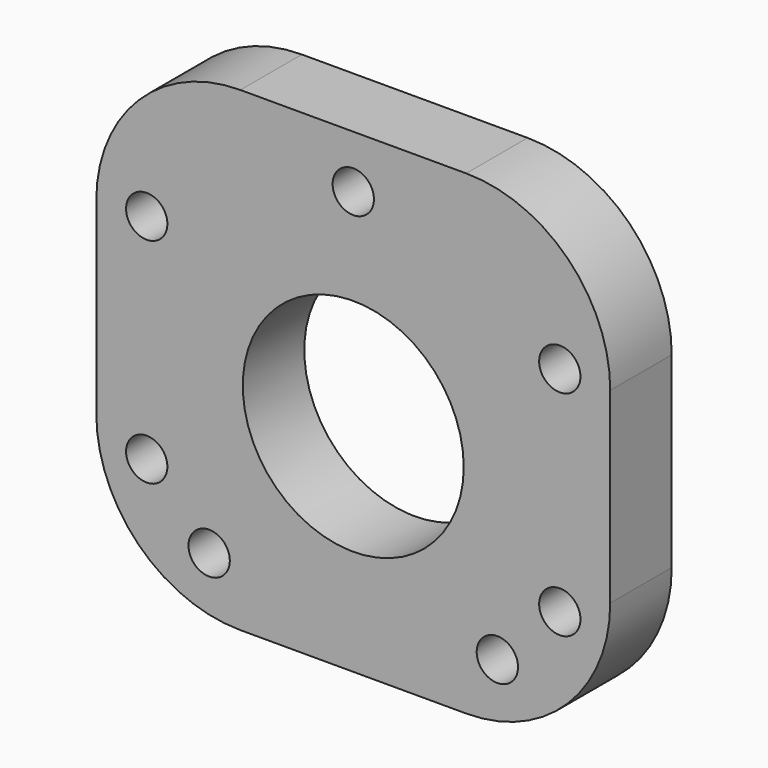
from build123d import *

# Parameters (mm, degrees)
F0_R     = 4.3
F0_R_2   = 23
F1_DEPTH = 16


with BuildPart() as f1:
    # F0 (on Front) → F1 (new body)
    with BuildSketch(Plane.XZ):
        with BuildLine():
            Line((23.5, 54), (-23.5, 54))
            ThreePointArc((-23.5, 54), (-44.713203, 45.213203), (-53.5, 24))
            Line((-53.5, 24), (-53.5, -15))
            ThreePointArc((-53.5, -15), (-44.713203, -36.213203), (-23.5, -45))
            Line((-23.5, -45), (23.5, -45))
            ThreePointArc((23.5, -45), (44.713203, -36.213203), (53.5, -15))
            Line((53.5, -15), (53.5, 24))
            ThreePointArc((53.5, 24), (44.713203, 45.213203), (23.5, 54))
        make_face()
        with Locations((-30, -33)):
            Circle(F0_R, mode=Mode.SUBTRACT)
        with Locations((-43, -20)):
            Circle(F0_R, mode=Mode.SUBTRACT)
        Circle(F0_R_2, mode=Mode.SUBTRACT)
        with Locations((30, -33)):
            Circle(F0_R, mode=Mode.SUBTRACT)
        with Locations((43, -20)):
            Circle(F0_R, mode=Mode.SUBTRACT)
        with Locations((-43, 24.5)):
            Circle(F0_R, mode=Mode.SUBTRACT)
        with Locations((0, 43)):
            Circle(F0_R, mode=Mode.SUBTRACT)
        with Locations((43, 24.5)):
            Circle(F0_R, mode=Mode.SUBTRACT)
    extrude(amount=F1_DEPTH)


solid = f1.part
